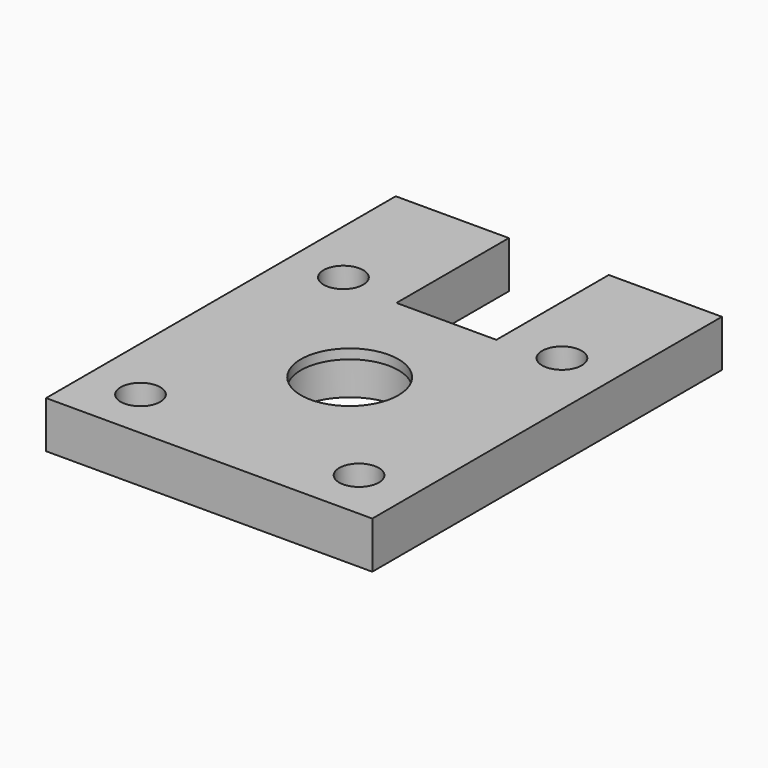
from build123d import *

# Parameters (mm, degrees)
SKETCH_R        = 2.54
PAD_DEPTH       = 12
SKETCH001_R     = 14.35
POCKET_DEPTH    = 9.53
SKETCH002_R     = 12.5
POCKET001_DEPTH = 12.001
SKETCH003_R     = 5.08
POCKET002_DEPTH = 5.65


with BuildPart() as part:
    # Sketch → Pad (new body)
    with BuildSketch(Plane.XY):
        Polygon((0, 0), (-41.8, 0), (-41.8, 112), (-12.8, 112), (-12.8, 76), (0, 76), align=None)
        with Locations((-28, 13)):
            Circle(SKETCH_R, mode=Mode.SUBTRACT)
        with Locations((-28, 78)):
            Circle(SKETCH_R, mode=Mode.SUBTRACT)
    pad = extrude(amount=PAD_DEPTH)

    # Mirrored: Pad across Sketch V_Axis
    add(pad.mirror(Plane(origin=(0, 0, 0), x_dir=(0, 0, 1), z_dir=(1, 0, 0))))

    # Sketch001 → Pocket (cut)
    with BuildSketch(Plane.XY):
        with Locations((0, 45)):
            Circle(SKETCH001_R)
    extrude(amount=POCKET_DEPTH, mode=Mode.SUBTRACT)

    # Sketch002 → Pocket001 (cut, through all)
    with BuildSketch(Plane.XY):
        with Locations((0, 45)):
            Circle(SKETCH002_R)
    extrude(amount=POCKET001_DEPTH, mode=Mode.SUBTRACT)

    # Sketch003 (on Face5 of Pocket001) → Pocket002 (cut)
    with BuildSketch(Plane.XY.offset(12)):
        with Locations((-28, 13)):
            Circle(SKETCH003_R)
        with Locations((-28, 78)):
            Circle(SKETCH003_R)
        with Locations((28, 78)):
            Circle(SKETCH003_R)
        with Locations((28, 13)):
            Circle(SKETCH003_R)
    extrude(amount=-POCKET002_DEPTH, mode=Mode.SUBTRACT)


solid = part.part
